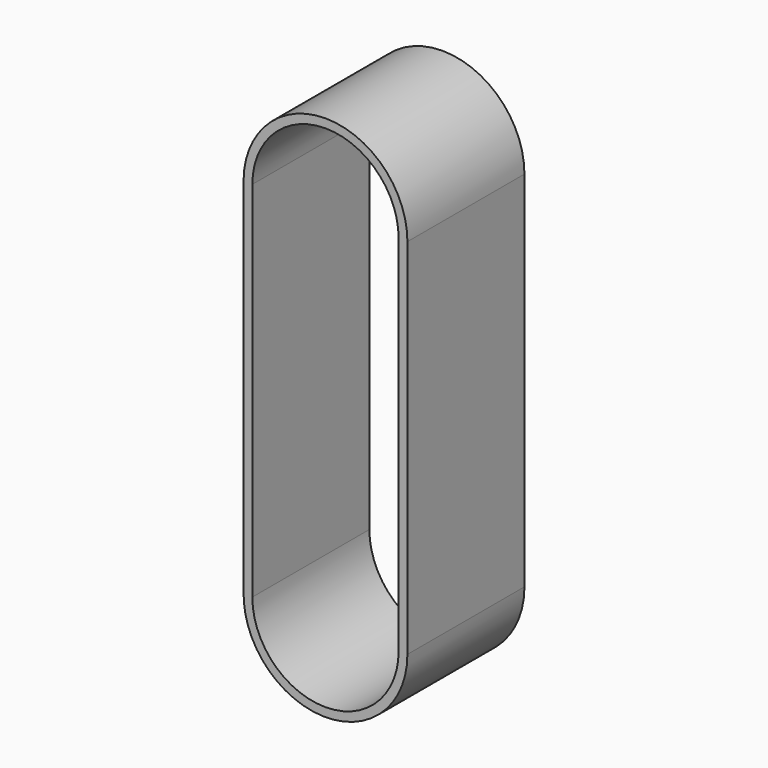
from build123d import *

# Parameters (mm, degrees)
F1_DEPTH = 6.35


with BuildPart() as f1:
    # F0 (on Front) → F1 (new body)
    with BuildSketch(Plane.XZ):
        with BuildLine():
            Line((3.556, -15.771598476), (3.556, 0))
            ThreePointArc((3.556, 0), (0, 3.556), (-3.556, 0))
            ThreePointArc((-3.556, 0), (-3.5559999056, -0.0008192066), (-3.5559996226, -0.0016384131))
            Line((-3.5559996226, -0.0016384131), (-3.5524034834, -15.6117063527))
            ThreePointArc((-3.5524034834, -15.6117063527), (-0.0799662836, -19.3266992331), (3.556, -15.771598476))
        make_face()
        with BuildLine():
            ThreePointArc((-3.175, 0), (0, 3.175), (3.175, 0))
            Line((3.175, 0), (3.175, -15.771598476))
            ThreePointArc((3.175, -15.771598476), (0, -18.946598476), (-3.175, -15.771598476))
            Line((-3.175, -15.771598476), (-3.175, 0))
        make_face(mode=Mode.SUBTRACT)
    extrude(amount=F1_DEPTH)


solid = f1.part
